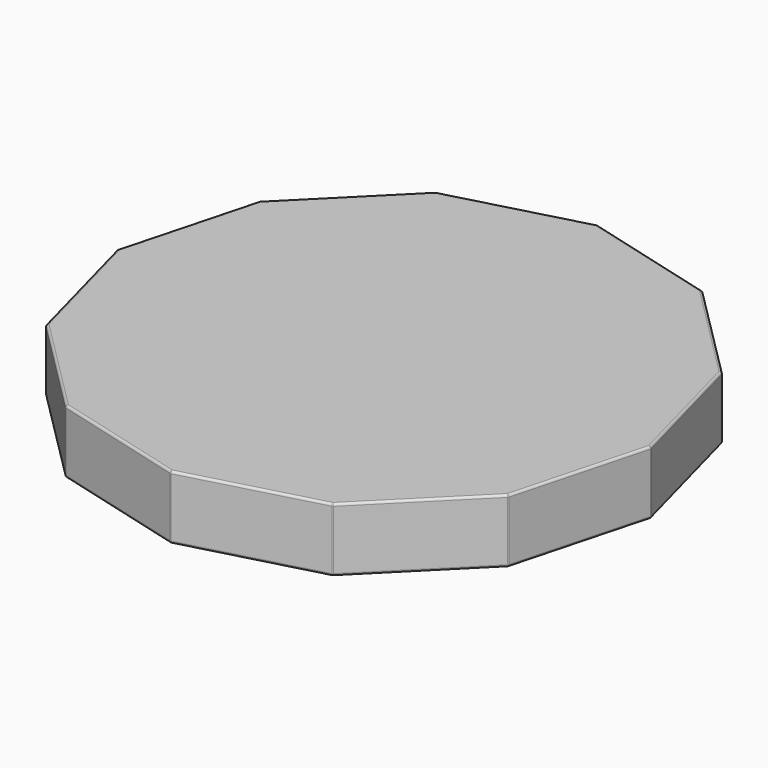
from build123d import *

# Parameters (mm, degrees)
F1_DEPTH = 2.8
F2_R     = 0.1


with BuildPart() as f1:
    # F0 (on Top) → F1 (new body)
    with BuildSketch(Plane.XY):
        Polygon((10.145488, 5.8575), (5.8575, 10.145488), (0, 11.715), (-5.8575, 10.145488), (-10.145488, 5.8575), (-11.715, 0), (-10.145488, -5.8575), (-5.8575, -10.145488), (0, -11.715), (5.8575, -10.145488), (10.145488, -5.8575), (11.715, 0), align=None)
    extrude(amount=F1_DEPTH)

    # F2
    f2_edges = [f1.edges().sort_by_distance(p)[0] for p in [
        (8.001494, 8.001494, 2.8),
        (2.92875, 10.930244, 2.8),
        (-2.92875, 10.930244, 2.8),
        (-8.001494, 8.001494, 2.8),
        (-10.930244, 2.92875, 2.8),
        (-10.930244, -2.92875, 2.8),
        (-8.001494, -8.001494, 2.8),
        (-2.92875, -10.930244, 2.8),
        (2.92875, -10.930244, 2.8),
        (8.001494, -8.001494, 2.8),
        (10.930244, -2.92875, 2.8),
        (10.930244, 2.92875, 2.8),
        (8.001494, 8.001494, 0),
        (2.92875, 10.930244, 0),
        (-2.92875, 10.930244, 0),
        (-8.001494, 8.001494, 0),
        (-10.930244, 2.92875, 0),
        (-10.930244, -2.92875, 0),
        (-8.001494, -8.001494, 0),
        (-2.92875, -10.930244, 0),
        (2.92875, -10.930244, 0),
        (8.001494, -8.001494, 0),
        (10.930244, -2.92875, 0),
        (10.930244, 2.92875, 0),
        (-10.145488, 5.8575, 1.4),
        (-11.715, 0, 1.4),
        (-10.145488, -5.8575, 1.4),
        (-5.8575, -10.145488, 1.4),
        (0, -11.715, 1.4),
        (5.8575, -10.145488, 1.4),
        (10.145488, -5.8575, 1.4),
        (11.715, 0, 1.4),
        (10.145488, 5.8575, 1.4),
        (5.8575, 10.145488, 1.4),
        (0, 11.715, 1.4),
        (-5.8575, 10.145488, 1.4),
    ]]
    fillet(f2_edges, radius=F2_R)


solid = f1.part
